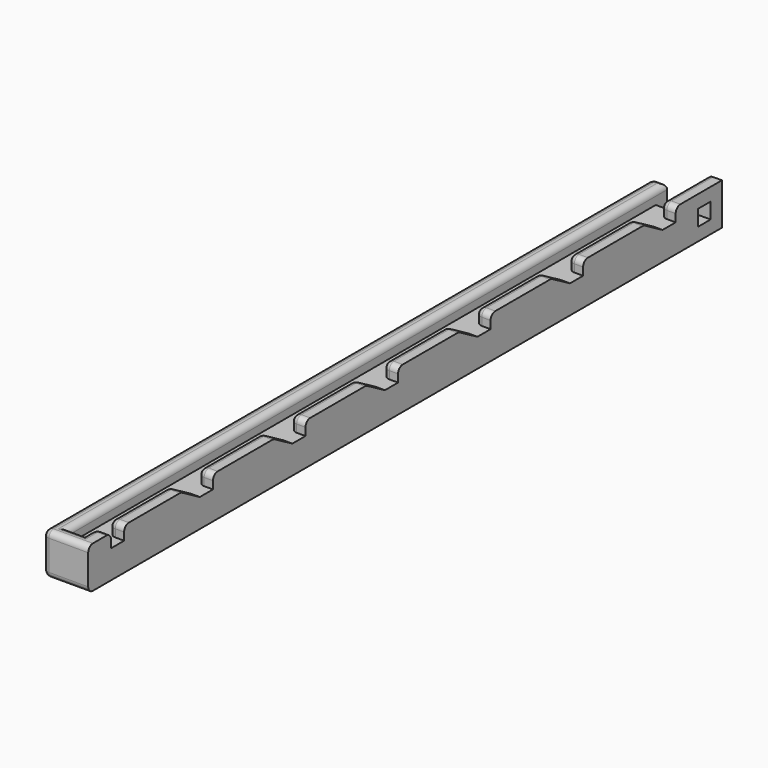
from build123d import *

# Parameters (mm, degrees)
SKETCH025_W             = 5
SKETCH025_H             = 14.2336
PAD013_DEPTH            = 270
PAD012_DEPTH            = 2.5
PAD014_DEPTH            = 4.7
SKETCH024_W             = 5.4
SKETCH024_H             = 5.4
POCKET011_DEPTH         = 2.501
POCKET011_DEPTH_BACK    = 7.901
POCKET013_DEPTH         = 2.501
POCKET013_DEPTH_BACK    = 7.901
LINEARPATTERN001_COUNT  = 6
LINEARPATTERN001_PITCH  = 39.428571
SKETCH028_W             = 5.6
SKETCH028_H             = 4.6168
POCKET012_DEPTH         = 2.501
POCKET012_DEPTH_BACK    = 7.901
SKETCH030_W             = 259.7
SKETCH030_H             = 14.2336
PAD015_DEPTH            = 5
FILLET012_R             = 2
BODY006_PLACEMENT_ANGLE = 180


with BuildPart() as part:
    # Sketch025 → Pad013 (new body)
    with BuildSketch(Plane.XZ.offset(-40)):
        Rectangle(SKETCH025_W, SKETCH025_H)
    extrude(amount=PAD013_DEPTH)

    # Sketch026 → Pad012 (join, symmetric)
    with BuildSketch(Plane.XY):
        Polygon((2.5, -230), (7.9, -230), (7.9, 0), (7.9, 24.8), (2.5, 24.8), align=None)
    extrude(amount=PAD012_DEPTH, both=True)

    # Sketch023 (on Face5 of Pad012) → Pad014 (join)
    with BuildSketch(Plane.XZ.offset(230)):
        Polygon((7.9, 7.1168), (7.9, -7.1168), (2.5, -7.1168), (-2.5, -7.1168), (-2.5, 7.1168), (2.5, 7.1168), align=None)
    extrude(amount=-PAD014_DEPTH)

    # Sketch024 → Pocket011 (cut, two sides)
    with BuildSketch(Plane.YZ) as pocket011_sk:
        with Locations((32.5, 0)):
            Rectangle(SKETCH024_W, SKETCH024_H)
    extrude(amount=-POCKET011_DEPTH, mode=Mode.SUBTRACT)
    extrude(pocket011_sk.sketch, amount=POCKET011_DEPTH_BACK, mode=Mode.SUBTRACT)

    # Sketch027 → Pocket013 (cut, two sides)
    with BuildSketch(Plane.YZ) as pocket013_sk:
        Polygon((6.703468, -7.1168), (20.3, -7.1168), (20.3, -2.5), (14.7, -2.5), align=None)
    pocket013 = extrude(amount=-POCKET013_DEPTH, mode=Mode.SUBTRACT) + extrude(pocket013_sk.sketch, amount=POCKET013_DEPTH_BACK, mode=Mode.SUBTRACT)

    # LinearPattern001: Pocket013 ×6
    with Locations(*[(0, -i * LINEARPATTERN001_PITCH, 0) for i in range(1, LINEARPATTERN001_COUNT)]):
        add(pocket013, mode=Mode.SUBTRACT)

    # Sketch028 → Pocket012 (cut, two sides)
    with BuildSketch(Plane.YZ) as pocket012_sk:
        with Locations((-217.5, -4.8084)):
            Rectangle(SKETCH028_W, SKETCH028_H)
    extrude(amount=-POCKET012_DEPTH, mode=Mode.SUBTRACT)
    extrude(pocket012_sk.sketch, amount=POCKET012_DEPTH_BACK, mode=Mode.SUBTRACT)

    # Sketch030 → Pad015 (join)
    with BuildSketch(Plane.YZ.offset(7.9)):
        with Locations((-100.15, 0)):
            Rectangle(SKETCH030_W, SKETCH030_H)
    extrude(amount=PAD015_DEPTH)

    # Fillet012
    fillet012_edges = [part.edges().sort_by_distance(p)[0] for p in [
        (12.9, -100.15, -7.1168),
        (12.9, 29.7, 0),
        (10.4, 29.7, 7.1168),
        (10.4, 29.7, -7.1168),
        (12.9, -100.15, 7.1168),
        (7.9, -97.8, 7.1168),
        (7.9, -97.8, -7.1168),
        (2.5, -92.65, 7.1168),
        (5.2, -230, 7.1168),
        (12.9, -230, 0),
        (5.2, -225.3, 7.1168),
        (5.2, -230, -7.1168),
        (5.2, -225.3, -7.1168),
        (2.5, -222.8, -7.1168),
        (0, -220.3, -7.1168),
        (2.5, -220.3, -4.8084),
        (2.5, -214.7, -4.8084),
        (2.5, -202.569695, -7.1168),
        (0, -214.7, -7.1168),
        (0, -190.439389, -7.1168),
        (2.5, -186.441123, -4.8084),
        (0, -176.842857, -7.1168),
        (2.5, -163.926838, -7.1168),
        (2.5, -176.842857, -4.8084),
        (0, -151.010818, -7.1168),
        (2.5, -147.012552, -4.8084),
        (0, -137.414286, -7.1168),
        (2.5, -137.414286, -4.8084),
        (2.5, -124.498266, -7.1168),
        (0, -111.582246, -7.1168),
        (2.5, -107.58398, -4.8084),
        (0, -97.985714, -7.1168),
        (2.5, -85.069695, -7.1168),
        (2.5, -97.985714, -4.8084),
        (2.5, -68.155409, -4.8084),
        (0, -72.153675, -7.1168),
        (0, -58.557143, -7.1168),
        (2.5, -58.557143, -4.8084),
        (2.5, -45.641123, -7.1168),
        (0, -32.725104, -7.1168),
        (2.5, -28.726838, -4.8084),
        (0, -19.128571, -7.1168),
        (2.5, -6.212552, -7.1168),
        (2.5, -19.128571, -4.8084),
        (0, 6.703468, -7.1168),
        (2.5, 10.701734, -4.8084),
        (2.5, 20.3, -4.8084),
        (2.5, 30.15, -7.1168),
        (0, 20.3, -7.1168),
    ]]
    fillet(fillet012_edges, radius=FILLET012_R)


with BuildPart() as part_1:
    # Body006 placement: moved
    add(part.part.moved(Location((-28.4159, -10, 78.239))).rotate(Axis((-28.4159, -10, 78.239), (0, 1, 0)), BODY006_PLACEMENT_ANGLE))


solid = part_1.part
